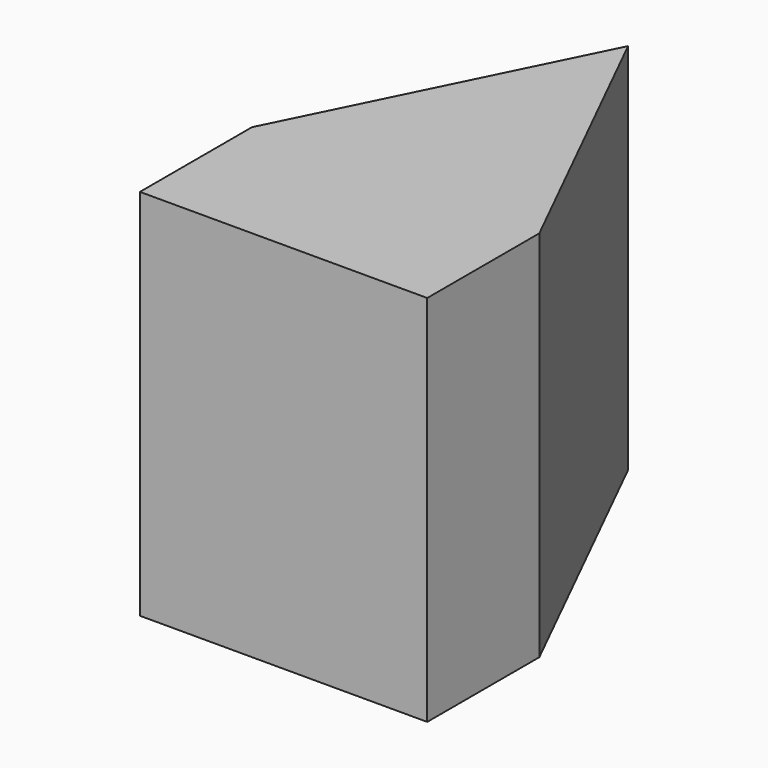
from build123d import *

# Parameters (mm, degrees)
F1_DEPTH = 104.105085
F2_DEPTH = 136.192122


with BuildPart() as f1:
    # F0 (on Top) → F1 (new body)
    with BuildSketch(Plane.XY):
        Polygon((0, 25.563598), (52.425861, 25.563598), (0, 131.583005), align=None)
        Polygon((-52.425861, 25.563598), (0, 25.563598), (0, 131.583005), align=None)
    extrude(amount=F1_DEPTH)


with BuildPart() as f2:
    # F0 (on Top) → F2 (new body)
    with BuildSketch(Plane.XY):
        Polygon((52.425861, -25.563598), (52.425861, 25.563598), (0, 25.563598), (-52.425861, 25.563598), (-52.425861, -25.563598), align=None)
        Polygon((0, 25.563598), (52.425861, 25.563598), (0, 131.583005), align=None)
        Polygon((-52.425861, 25.563598), (0, 25.563598), (0, 131.583005), align=None)
        Polygon((0, 25.563598), (52.425861, 25.563598), (0, 131.583005), align=None)
    extrude(amount=F2_DEPTH)


solid = Compound([f1.part, f2.part])
